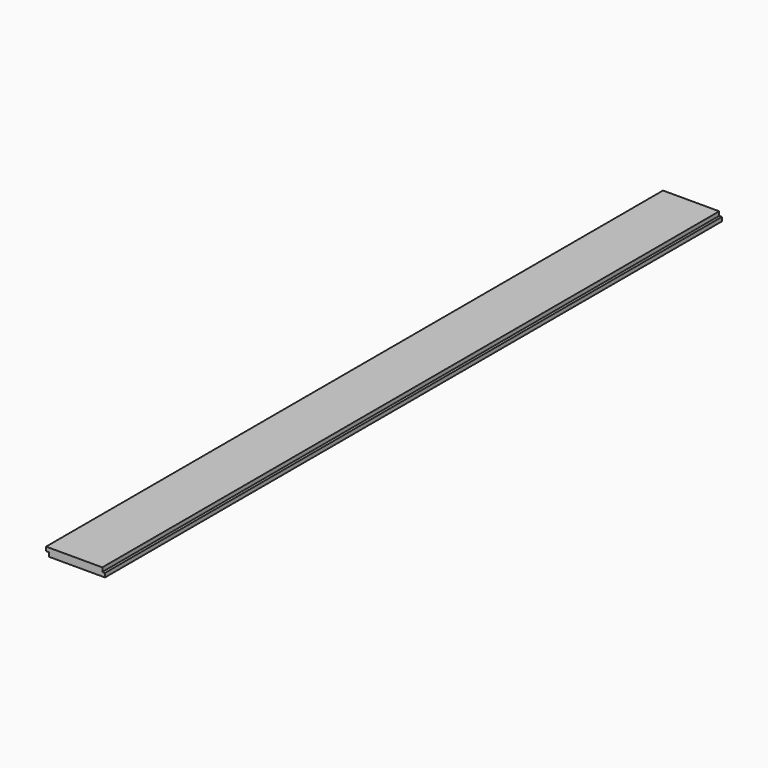
from build123d import *

# Parameters (mm, degrees)
F0_W     = 139.7
F0_H     = 19.05
F1_DEPTH = 1828.8
F2_W     = 6.35
F2_H     = 9.525
F3_DEPTH = 1828.801


with BuildPart() as f1:
    # F0 (on Front) → F1 (new body)
    with BuildSketch(Plane.XZ):
        with Locations((69.85, 9.525)):
            Rectangle(F0_W, F0_H)
    extrude(amount=F1_DEPTH)

    # F2 (on face) → F3 (cut, through all)
    with BuildSketch(Plane.XZ.offset(1828.8)):
        with Locations((3.175, 4.7625)):
            Rectangle(F2_W, F2_H)
        with Locations((136.525, 14.2875)):
            Rectangle(F2_W, F2_H)
    extrude(amount=-F3_DEPTH, mode=Mode.SUBTRACT)


solid = f1.part
